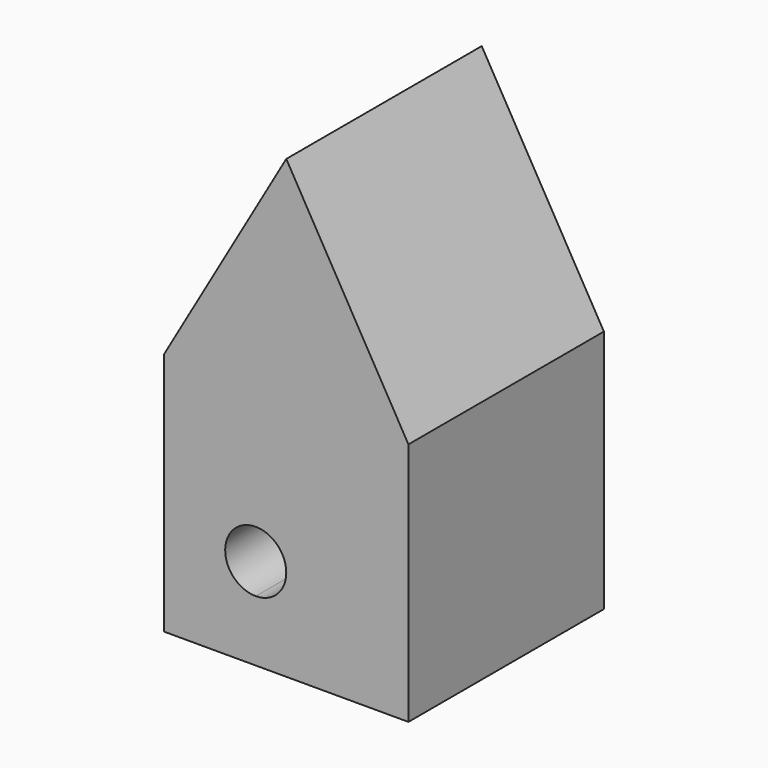
from build123d import *

# Parameters (mm, degrees)
F1_DEPTH = 50.8


with BuildPart() as f1:
    # F0 (on Front) → F1 (new body)
    with BuildSketch(Plane.XZ):
        with BuildLine():
            ThreePointArc((-13.010585, 2.079484), (-23.850713, 6.569612), (-19.360585, -4.270516))
            ThreePointArc((-19.360585, -4.270516), (-14.870457, -2.410644), (-13.010585, 2.079484))
        make_face()
        Polygon((-38.410585, 2.079484), (-38.410585, -16.970516), (-19.360585, -16.970516), (12.389415, -16.970516), (12.389415, 33.829484), (-13.010585, 77.823575), (-38.410585, 33.829484), align=None)
        with BuildLine():
            ThreePointArc((-13.010585, 2.079484), (-14.870457, -2.410644), (-19.360585, -4.270516))
            ThreePointArc((-19.360585, -4.270516), (-23.850713, 6.569612), (-13.010585, 2.079484))
        make_face(mode=Mode.SUBTRACT)
    extrude(amount=F1_DEPTH)


solid = f1.part
